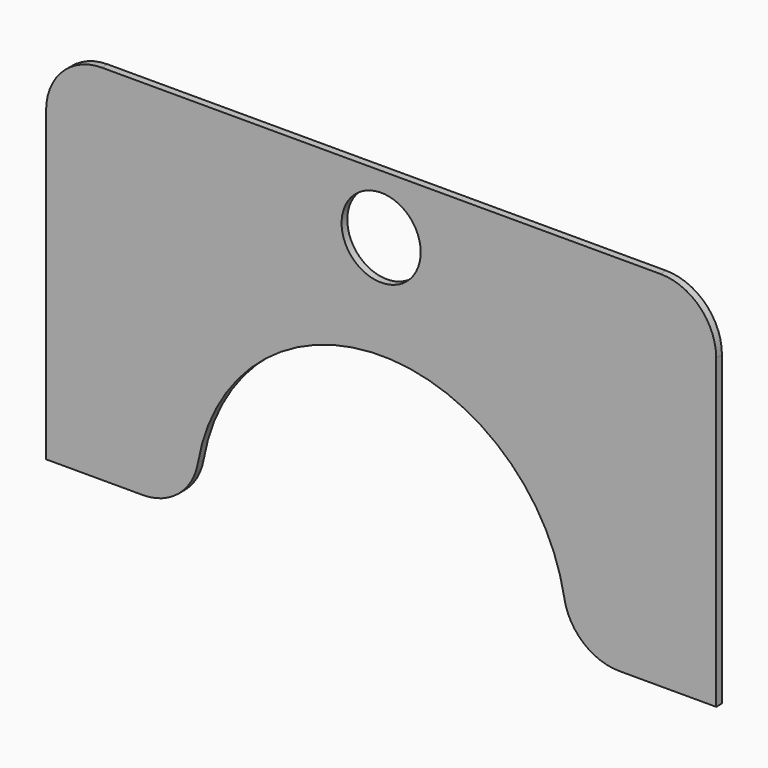
from build123d import *

# Parameters (mm, degrees)
F1_DEPTH = 0.8128
F2_R     = 4.5
F3_DEPTH = 25.4


with BuildPart() as f1:
    # F0 (on Front) → F1 (new body)
    with BuildSketch(Plane.XZ):
        with BuildLine():
            ThreePointArc((-20.832611, 3.624153), (0, 21.1455), (20.832611, 3.624153))
            ThreePointArc((20.832611, 3.624153), (23.001379, -0.147215), (27.08865, -1.637512))
            Line((27.08865, -1.637512), (38.1, -1.637512))
            Line((38.1, -1.637512), (38.1, 33.287488))
            ThreePointArc((38.1, 33.287488), (36.240128, 37.777616), (31.75, 39.637488))
            Line((31.75, 39.637488), (-31.75, 39.637488))
            ThreePointArc((-31.75, 39.637488), (-36.240128, 37.777616), (-38.1, 33.287488))
            Line((-38.1, 33.287488), (-38.1, -1.637512))
            Line((-38.1, -1.637512), (-27.08865, -1.637512))
            ThreePointArc((-27.08865, -1.637512), (-23.001379, -0.147215), (-20.832611, 3.624153))
        make_face()
    extrude(amount=F1_DEPTH)

    # F2 (on face) → F3 (cut)
    with BuildSketch(Plane.XZ.offset(0.8128)):
        with Locations((0, 32.944188)):
            Circle(F2_R)
    extrude(amount=-F3_DEPTH, mode=Mode.SUBTRACT)


solid = f1.part
